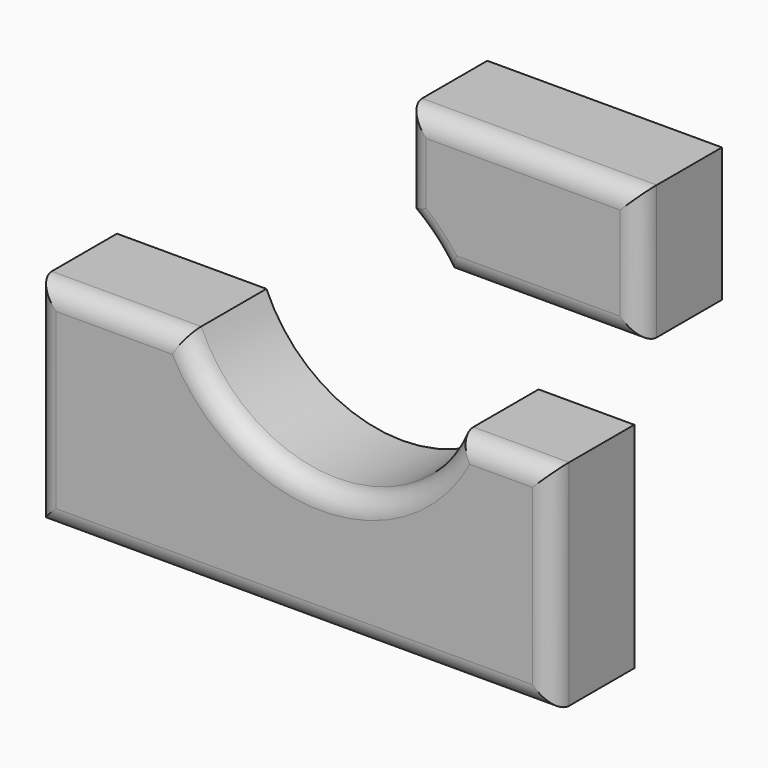
from build123d import *

# Parameters (mm, degrees)
F1_DEPTH = 12.7
F2_R     = 5.08
F2_2_R   = 5.08


with BuildPart() as f1:
    # F0 (on Front) → F1 (new body, symmetric)
    with BuildSketch(Plane.XZ):
        with BuildLine():
            Line((21.1495440453, 53.3111467957), (21.1495440453, 30.3275137133))
            ThreePointArc((21.1495440453, 30.3275137133), (26.6896834856, 25.5875379197), (31.1919489606, 19.852546975))
            Line((31.1919489606, 19.852546975), (79.6632692218, 19.852546975))
            Line((79.6632692218, 19.852546975), (79.6632692218, 53.3111467957))
            Line((79.6632692218, 53.3111467957), (21.1495440453, 53.3111467957))
        make_face()
    extrude(amount=F1_DEPTH, both=True)

    # F2#2
    f2_2_edges = [f1.edges().sort_by_distance(p)[0] for p in [
        (26.689683, -12.7, 25.587538),
        (21.149544, -12.7, 41.81933),
        (55.427609, -12.7, 19.852547),
        (50.406407, -12.7, 53.311147),
        (79.663269, -12.7, 36.581847),
    ]]
    fillet(f2_2_edges, radius=F2_2_R)


with BuildPart() as f1b:
    # F0 (on Front) → F1, piece 2 (new body, symmetric)
    with BuildSketch(Plane.XZ):
        with BuildLine():
            Line((-71.2034627795, -14.683874324), (-71.2034627795, -68.1411400437))
            Line((-71.2034627795, -68.1411400437), (57.8087456524, -68.1411400437))
            Line((57.8087456524, -68.1411400437), (57.8087456524, -14.683874324))
            Line((57.8087456524, -14.683874324), (33.9329505966, -14.683874324))
            ThreePointArc((33.9329505966, -14.683874324), (0, -36.9737920878), (-33.9329505966, -14.683874324))
            Line((-33.9329505966, -14.683874324), (-71.2034627795, -14.683874324))
        make_face()
    extrude(amount=F1_DEPTH, both=True)

    # F2
    f2_edges = [f1b.edges().sort_by_distance(p)[0] for p in [
        (-52.568207, -12.7, -14.683874),
        (0, -12.7, -36.973792),
        (45.870848, -12.7, -14.683874),
        (-71.203463, -12.7, -41.412507),
        (57.808746, -12.7, -41.412507),
        (-6.697359, -12.7, -68.14114),
    ]]
    fillet(f2_edges, radius=F2_R)


solid = Compound([f1.part, f1b.part])
